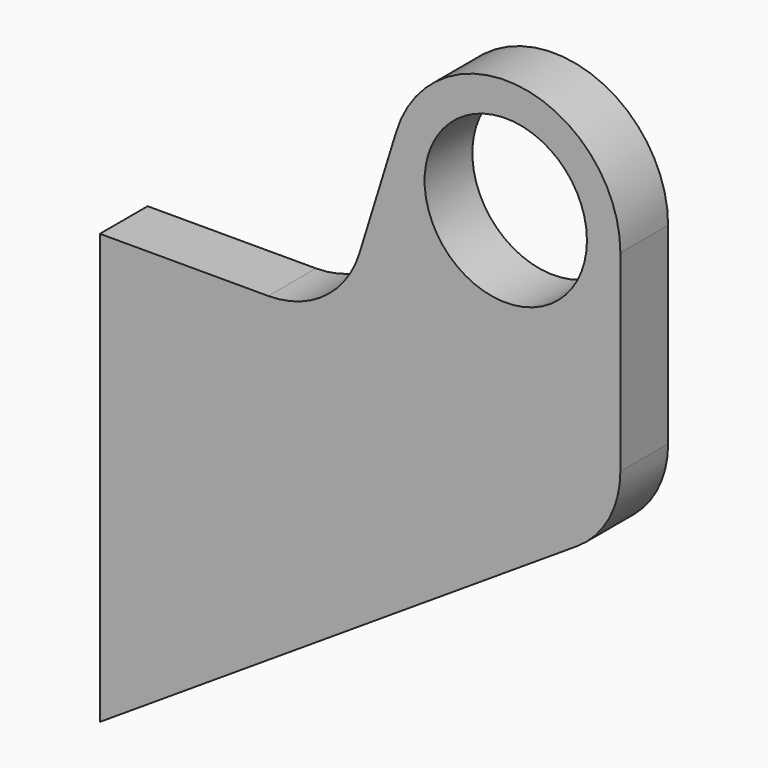
from build123d import *

# Parameters (mm, degrees)
F0_R     = 34
F1_DEPTH = 25
F2_DEPTH = 25


with BuildPart() as f1:
    # F0 (on Front) → F1 (new body)
    with BuildSketch(Plane.XZ):
        with BuildLine():
            Line((70.503501, 0), (0, 0))
            Line((0, 0), (0, -180))
            Line((0, -180), (199.785951, -50.254189))
            ThreePointArc((199.785951, -50.254189), (213.152795, -35.793765), (218, -16.707619))
            Line((218, -16.707619), (218, 63.868526))
            ThreePointArc((218, 63.868526), (162.994118, 16.382553), (124.045099, 77.730239))
            Line((124.045099, 77.730239), (108.716917, 28.179049))
            ThreePointArc((108.716917, 28.179049), (94.243362, 7.806538), (70.503501, 0))
        make_face()
        with BuildLine():
            ThreePointArc((218, 63.868526), (177.005882, 111.354498), (124.045099, 77.730239))
            ThreePointArc((124.045099, 77.730239), (162.994118, 16.382553), (218, 63.868526))
        make_face()
        with Locations((170, 63.868526)):
            Circle(F0_R, mode=Mode.SUBTRACT)
    extrude(amount=F1_DEPTH)

    # F0 (on Front) → F2 (join)
    with BuildSketch(Plane.XZ):
        with BuildLine():
            Line((70.503501, 0), (0, 0))
            Line((0, 0), (0, -180))
            Line((0, -180), (199.785951, -50.254189))
            ThreePointArc((199.785951, -50.254189), (213.152795, -35.793765), (218, -16.707619))
            Line((218, -16.707619), (218, 63.868526))
            ThreePointArc((218, 63.868526), (162.994118, 16.382553), (124.045099, 77.730239))
            Line((124.045099, 77.730239), (108.716917, 28.179049))
            ThreePointArc((108.716917, 28.179049), (94.243362, 7.806538), (70.503501, 0))
        make_face()
        with BuildLine():
            ThreePointArc((218, 63.868526), (177.005882, 111.354498), (124.045099, 77.730239))
            ThreePointArc((124.045099, 77.730239), (162.994118, 16.382553), (218, 63.868526))
        make_face()
        with Locations((170, 63.868526)):
            Circle(F0_R, mode=Mode.SUBTRACT)
    extrude(amount=F2_DEPTH)


solid = f1.part
